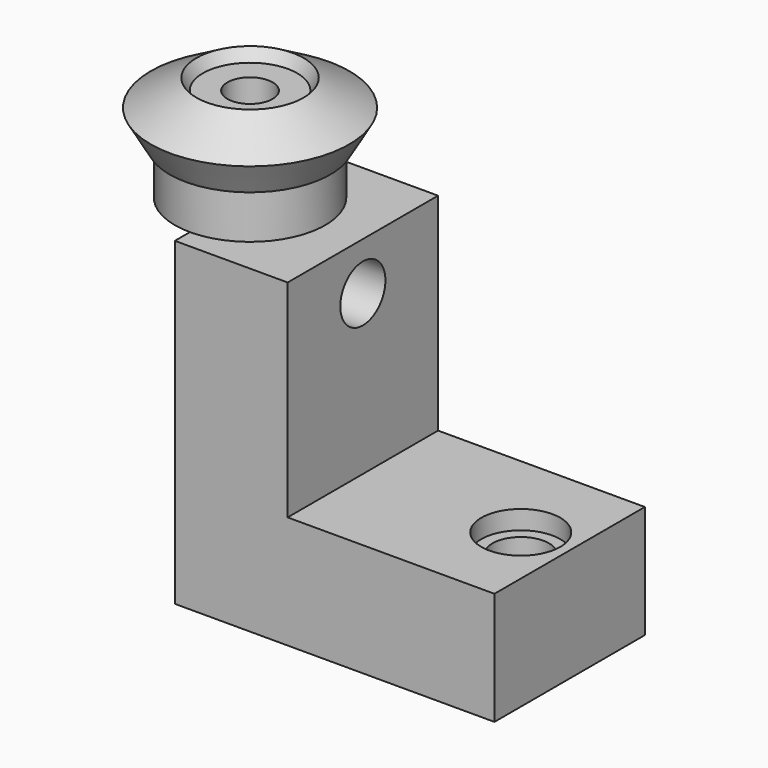
from build123d import *

# Parameters (mm, degrees)
F2_W      = 50
F2_H      = 85
F3_DEPTH  = 85
F4_W      = 50
F4_H      = 55
F5_DEPTH  = 55
F6_R      = 10.5
F7_DEPTH  = 5
F8_R      = 7.5
F9_DEPTH  = 40
F10_R     = 10.5
F10_R_2   = 7.5
F11_DEPTH = 5
F12_R     = 7.5
F13_DEPTH = 56.401


with BuildPart() as f1:
    # F0 (on Front) → F1 (revolve)
    with BuildSketch(Plane.XZ):
        Polygon((-20, 0), (-6, 0), (-6, 25), (-12.543594, 25), (-14.275644, 28), (-26.4, 21), (-21.377053, 12.3), (-20, 12.3), align=None)
    revolve(axis=Axis((0, 0, 13.31774), (0, 0, 1)))


with BuildPart() as f3:
    # F2 (on Right) → F3 (new body)
    with BuildSketch(Plane.YZ):
        with Locations((0, -42.5)):
            Rectangle(F2_W, F2_H)
    extrude(amount=F3_DEPTH)

    # F4 (on face) → F5 (cut)
    with BuildSketch(Plane.YZ.offset(85)):
        with Locations((0, -27.5)):
            Rectangle(F4_W, F4_H)
    extrude(amount=-F5_DEPTH, mode=Mode.SUBTRACT)

    # F6 (on face) → F7 (cut)
    with BuildSketch(Plane(origin=(0, 0, -85), x_dir=(1, 0, 0), z_dir=(0, 0, -1))):
        with Locations((72, 0)):
            Circle(F6_R)
    extrude(amount=-F7_DEPTH, mode=Mode.SUBTRACT)

    # F8 (on face) → F9 (cut)
    with BuildSketch(Plane(origin=(0, 0, -80), x_dir=(1, 0, 0), z_dir=(0, 0, -1))):
        with Locations((72, 0)):
            Circle(F8_R)
    extrude(amount=-F9_DEPTH, mode=Mode.SUBTRACT)

    # F10 (on face) → F11 (cut)
    with BuildSketch(Plane.XY.offset(-55)):
        with Locations((72, 0)):
            Circle(F10_R)
        with Locations((72, 0)):
            Circle(F10_R_2, mode=Mode.SUBTRACT)
    extrude(amount=-F11_DEPTH, mode=Mode.SUBTRACT)

    # F12 (on face) → F13 (cut, through all)
    with BuildSketch(Plane.YZ.offset(30)):
        with Locations((0, -12.72)):
            Circle(F12_R)
    extrude(amount=-F13_DEPTH, mode=Mode.SUBTRACT)


solid = Compound([f1.part, f3.part])
